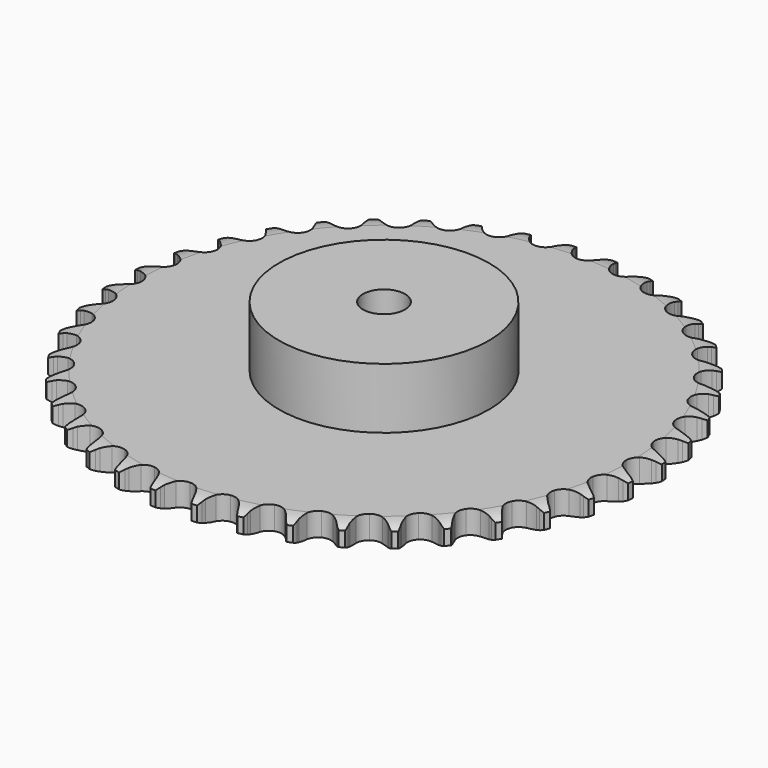
from build123d import *

# Parameters (mm, degrees)
PAD_DEPTH         = 11.1
SKETCH001_R       = 50
PAD001_DEPTH      = 40
SKETCH002_R       = 10
POCKET_DEPTH      = 0.001
POCKET_DEPTH_BACK = 40.001


with BuildPart() as part:
    # Sprocket → Pad (new body)
    with BuildSketch(Plane.XY):
        with BuildLine():
            ThreePointArc((-10.000443, 127.067676), (-8.616293, 125.369452), (-7.644652, 123.405845))
            Line((-7.644652, 123.405845), (-7.056217, 121.780312))
            ThreePointArc((-7.056217, 121.780312), (-6.126662, 119.69739), (-4.906159, 117.770471))
            ThreePointArc((-4.906159, 117.770471), (-2.747075, 115.950742), (0, 115.297563))
            ThreePointArc((0, 115.297563), (2.747075, 115.950742), (4.906159, 117.770471))
            ThreePointArc((4.906159, 117.770471), (6.126662, 119.69739), (7.056217, 121.780312))
            Line((7.056217, 121.780312), (7.644652, 123.405845))
            ThreePointArc((7.644652, 123.405845), (8.616293, 125.369452), (10.000443, 127.067676))
            ThreePointArc((10.000443, 127.067676), (11.101891, 125.173831), (11.754394, 123.082401))
            Line((11.754394, 123.082401), (12.081294, 121.38483))
            ThreePointArc((12.081294, 121.38483), (12.673565, 119.182137), (13.577604, 117.088014))
            ThreePointArc((13.577604, 117.088014), (15.425439, 114.952933), (18.036513, 113.878059))
            ThreePointArc((18.036513, 113.878059), (20.851946, 114.093459), (23.269117, 115.553029))
            Line((23.269117, 115.553029), (26.019982, 119.177159))
            ThreePointArc((26.019982, 119.177159), (26.416953, 119.945358), (26.855461, 120.690627))
            ThreePointArc((26.855461, 120.690627), (28.122315, 122.478061), (29.755085, 123.938849))
            ThreePointArc((29.755085, 123.938849), (30.54671, 121.896015), (30.864007, 119.728261))
            Line((30.864007, 119.728261), (30.921325, 118.000451))
            ThreePointArc((30.921325, 118.000451), (31.161726, 115.732225), (31.727042, 113.522461))
            ThreePointArc((31.727042, 113.522461), (33.218127, 111.124602), (35.628906, 109.654499))
            ThreePointArc((35.628906, 109.654499), (38.443373, 109.426816), (41.059112, 110.490288))
            Line((41.059112, 110.490288), (44.343048, 113.639468))
            ThreePointArc((44.343048, 113.639468), (44.855304, 114.33611), (45.404999, 115.003606))
            ThreePointArc((45.404999, 115.003606), (46.935873, 116.570853), (48.777058, 117.758235))
            ThreePointArc((48.777058, 117.758235), (49.239367, 115.616715), (49.213646, 113.426013))
            Line((49.213646, 113.426013), (48.999969, 111.710508))
            ThreePointArc((48.999969, 111.710508), (48.882582, 109.432601), (49.095255, 107.161608))
            ThreePointArc((49.095255, 107.161608), (50.192874, 104.560014), (52.343998, 102.730881))
            ThreePointArc((52.343998, 102.730881), (55.088197, 102.065722), (57.838095, 102.706909))
            Line((57.838095, 102.706909), (61.574241, 105.303597))
            ThreePointArc((61.574241, 105.303597), (62.189169, 105.911527), (62.836516, 106.484814))
            ThreePointArc((62.836516, 106.484814), (64.593713, 107.793285), (66.597978, 108.678023))
            ThreePointArc((66.597978, 108.678023), (66.719588, 106.490547), (66.351482, 104.33084))
            Line((66.351482, 104.33084), (65.872072, 102.669883))
            ThreePointArc((65.872072, 102.669883), (65.399787, 100.438384), (65.25458, 98.162081))
            ThreePointArc((65.25458, 98.162081), (65.931706, 95.420811), (67.770207, 93.277688))
            ThreePointArc((67.770207, 93.277688), (70.376566, 92.191431), (73.192913, 92.394545))
            Line((73.192913, 92.394545), (77.289271, 94.374802))
            ThreePointArc((77.289271, 94.374802), (77.99173, 94.879051), (78.720789, 95.344012))
            ThreePointArc((78.720789, 95.344012), (80.661042, 96.361487), (82.779035, 96.921797))
            ThreePointArc((82.779035, 96.921797), (82.556951, 94.742229), (81.855525, 92.666695))
            Line((81.855525, 92.666695), (81.122186, 91.101184))
            ThreePointArc((81.122186, 91.101184), (80.306632, 88.97104), (79.80712, 86.745478))
            ThreePointArc((79.80712, 86.745478), (80.047081, 83.932031), (81.527689, 81.527689))
            ThreePointArc((81.527689, 81.527689), (83.932031, 80.047081), (86.745478, 79.80712))
            Line((86.745478, 79.80712), (91.101184, 81.122186))
            ThreePointArc((91.101184, 81.122186), (91.873876, 81.510338), (92.666695, 81.855525))
            ThreePointArc((92.666695, 81.855525), (94.742229, 82.556951), (96.921797, 82.779035))
            ThreePointArc((96.921797, 82.779035), (96.361487, 80.661042), (95.344012, 78.720789))
            Line((95.344012, 78.720789), (94.374802, 77.289271))
            ThreePointArc((94.374802, 77.289271), (93.236061, 75.312934), (92.394545, 73.192913))
            ThreePointArc((92.394545, 73.192913), (92.191431, 70.376566), (93.277688, 67.770207))
            ThreePointArc((93.277688, 67.770207), (95.420811, 65.931706), (98.162081, 65.25458))
            Line((98.162081, 65.25458), (102.669883, 65.872072))
            ThreePointArc((102.669883, 65.872072), (103.493782, 66.13457), (104.33084, 66.351482))
            ThreePointArc((104.33084, 66.351482), (106.490547, 66.719588), (108.678023, 66.597978))
            ThreePointArc((108.678023, 66.597978), (107.793285, 64.593713), (106.484814, 62.836516))
            Line((106.484814, 62.836516), (105.303597, 61.574241))
            ThreePointArc((105.303597, 61.574241), (103.869709, 59.800373), (102.706909, 57.838095))
            ThreePointArc((102.706909, 57.838095), (102.065722, 55.088197), (102.730881, 52.343998))
            ThreePointArc((102.730881, 52.343998), (104.560014, 50.192874), (107.161608, 49.095255))
            Line((107.161608, 49.095255), (111.710508, 48.999969))
            ThreePointArc((111.710508, 48.999969), (112.565328, 49.130349), (113.426013, 49.213646))
            ThreePointArc((113.426013, 49.213646), (115.616715, 49.239367), (117.758235, 48.777058))
            ThreePointArc((117.758235, 48.777058), (116.570853, 46.935873), (115.003606, 45.404999))
            Line((115.003606, 45.404999), (113.639468, 44.343048))
            ThreePointArc((113.639468, 44.343048), (111.94574, 42.815329), (110.490288, 41.059112))
            ThreePointArc((110.490288, 41.059112), (109.426816, 38.443373), (109.654499, 35.628906))
            ThreePointArc((109.654499, 35.628906), (111.124602, 33.218127), (113.522461, 31.727042))
            Line((113.522461, 31.727042), (118.000451, 30.921325))
            ThreePointArc((118.000451, 30.921325), (118.865142, 30.916376), (119.728261, 30.864007))
            ThreePointArc((119.728261, 30.864007), (121.896015, 30.54671), (123.938849, 29.755085))
            ThreePointArc((123.938849, 29.755085), (122.478061, 28.122315), (120.690627, 26.855461))
            Line((120.690627, 26.855461), (119.177159, 26.019982))
            ThreePointArc((119.177159, 26.019982), (117.265295, 24.776029), (115.553029, 23.269117))
            ThreePointArc((115.553029, 23.269117), (114.093459, 20.851946), (113.878059, 18.036513))
            ThreePointArc((113.878059, 18.036513), (114.952933, 15.425439), (117.088014, 13.577604))
            Line((117.088014, 13.577604), (121.38483, 12.081294))
            ThreePointArc((121.38483, 12.081294), (122.238102, 11.941139), (123.082401, 11.754394))
            ThreePointArc((123.082401, 11.754394), (125.173831, 11.101891), (127.067676, 10.000443))
            ThreePointArc((127.067676, 10.000443), (125.369452, 8.616293), (123.405845, 7.644652))
            Line((123.405845, 7.644652), (121.780312, 7.056217))
            ThreePointArc((121.780312, 7.056217), (119.69739, 6.126662), (117.770471, 4.906159))
            ThreePointArc((117.770471, 4.906159), (115.950742, 2.747075), (115.297563, 0))
            ThreePointArc((115.297563, 0), (115.950742, -2.747075), (117.770471, -4.906159))
            Line((117.770471, -4.906159), (121.780312, -7.056217))
            ThreePointArc((121.780312, -7.056217), (122.601154, -7.328128), (123.405845, -7.644652))
            ThreePointArc((123.405845, -7.644652), (125.369452, -8.616293), (127.067676, -10.000443))
            ThreePointArc((127.067676, -10.000443), (125.173831, -11.101891), (123.082401, -11.754394))
            Line((123.082401, -11.754394), (121.38483, -12.081294))
            ThreePointArc((121.38483, -12.081294), (119.182137, -12.673565), (117.088014, -13.577604))
            ThreePointArc((117.088014, -13.577604), (114.952933, -15.425439), (113.878059, -18.036513))
            ThreePointArc((113.878059, -18.036513), (114.093459, -20.851946), (115.553029, -23.269117))
            Line((115.553029, -23.269117), (119.177159, -26.019982))
            ThreePointArc((119.177159, -26.019982), (119.945358, -26.416953), (120.690627, -26.855461))
            ThreePointArc((120.690627, -26.855461), (122.478061, -28.122315), (123.938849, -29.755085))
            ThreePointArc((123.938849, -29.755085), (121.896015, -30.54671), (119.728261, -30.864007))
            Line((119.728261, -30.864007), (118.000451, -30.921325))
            ThreePointArc((118.000451, -30.921325), (115.732225, -31.161726), (113.522461, -31.727042))
            ThreePointArc((113.522461, -31.727042), (111.124602, -33.218127), (109.654499, -35.628906))
            ThreePointArc((109.654499, -35.628906), (109.426816, -38.443373), (110.490288, -41.059112))
            Line((110.490288, -41.059112), (113.639468, -44.343048))
            ThreePointArc((113.639468, -44.343048), (114.33611, -44.855304), (115.003606, -45.404999))
            ThreePointArc((115.003606, -45.404999), (116.570853, -46.935873), (117.758235, -48.777058))
            ThreePointArc((117.758235, -48.777058), (115.616715, -49.239367), (113.426013, -49.213646))
            Line((113.426013, -49.213646), (111.710508, -48.999969))
            ThreePointArc((111.710508, -48.999969), (109.432601, -48.882582), (107.161608, -49.095255))
            ThreePointArc((107.161608, -49.095255), (104.560014, -50.192874), (102.730881, -52.343998))
            ThreePointArc((102.730881, -52.343998), (102.065722, -55.088197), (102.706909, -57.838095))
            Line((102.706909, -57.838095), (105.303597, -61.574241))
            ThreePointArc((105.303597, -61.574241), (105.911527, -62.189169), (106.484814, -62.836516))
            ThreePointArc((106.484814, -62.836516), (107.793285, -64.593713), (108.678023, -66.597978))
            ThreePointArc((108.678023, -66.597978), (106.490547, -66.719588), (104.33084, -66.351482))
            Line((104.33084, -66.351482), (102.669883, -65.872072))
            ThreePointArc((102.669883, -65.872072), (100.438384, -65.399787), (98.162081, -65.25458))
            ThreePointArc((98.162081, -65.25458), (95.420811, -65.931706), (93.277688, -67.770207))
            ThreePointArc((93.277688, -67.770207), (92.191431, -70.376566), (92.394545, -73.192913))
            Line((92.394545, -73.192913), (94.374802, -77.289271))
            ThreePointArc((94.374802, -77.289271), (94.879051, -77.99173), (95.344012, -78.720789))
            ThreePointArc((95.344012, -78.720789), (96.361487, -80.661042), (96.921797, -82.779035))
            ThreePointArc((96.921797, -82.779035), (94.742229, -82.556951), (92.666695, -81.855525))
            Line((92.666695, -81.855525), (91.101184, -81.122186))
            ThreePointArc((91.101184, -81.122186), (88.97104, -80.306632), (86.745478, -79.80712))
            ThreePointArc((86.745478, -79.80712), (83.932031, -80.047081), (81.527689, -81.527689))
            ThreePointArc((81.527689, -81.527689), (80.047081, -83.932031), (79.80712, -86.745478))
            Line((79.80712, -86.745478), (81.122186, -91.101184))
            ThreePointArc((81.122186, -91.101184), (81.510338, -91.873876), (81.855525, -92.666695))
            ThreePointArc((81.855525, -92.666695), (82.556951, -94.742229), (82.779035, -96.921797))
            ThreePointArc((82.779035, -96.921797), (80.661042, -96.361487), (78.720789, -95.344012))
            Line((78.720789, -95.344012), (77.289271, -94.374802))
            ThreePointArc((77.289271, -94.374802), (75.312934, -93.236061), (73.192913, -92.394545))
            ThreePointArc((73.192913, -92.394545), (70.376566, -92.191431), (67.770207, -93.277688))
            ThreePointArc((67.770207, -93.277688), (65.931706, -95.420811), (65.25458, -98.162081))
            Line((65.25458, -98.162081), (65.872072, -102.669883))
            ThreePointArc((65.872072, -102.669883), (66.13457, -103.493782), (66.351482, -104.33084))
            ThreePointArc((66.351482, -104.33084), (66.719588, -106.490547), (66.597978, -108.678023))
            ThreePointArc((66.597978, -108.678023), (64.593713, -107.793285), (62.836516, -106.484814))
            Line((62.836516, -106.484814), (61.574241, -105.303597))
            ThreePointArc((61.574241, -105.303597), (59.800373, -103.869709), (57.838095, -102.706909))
            ThreePointArc((57.838095, -102.706909), (55.088197, -102.065722), (52.343998, -102.730881))
            ThreePointArc((52.343998, -102.730881), (50.192874, -104.560014), (49.095255, -107.161608))
            Line((49.095255, -107.161608), (48.999969, -111.710508))
            ThreePointArc((48.999969, -111.710508), (49.130349, -112.565328), (49.213646, -113.426013))
            ThreePointArc((49.213646, -113.426013), (49.239367, -115.616715), (48.777058, -117.758235))
            ThreePointArc((48.777058, -117.758235), (46.935873, -116.570853), (45.404999, -115.003606))
            Line((45.404999, -115.003606), (44.343048, -113.639468))
            ThreePointArc((44.343048, -113.639468), (42.815329, -111.94574), (41.059112, -110.490288))
            ThreePointArc((41.059112, -110.490288), (38.443373, -109.426816), (35.628906, -109.654499))
            ThreePointArc((35.628906, -109.654499), (33.218127, -111.124602), (31.727042, -113.522461))
            Line((31.727042, -113.522461), (30.921325, -118.000451))
            ThreePointArc((30.921325, -118.000451), (30.916376, -118.865142), (30.864007, -119.728261))
            ThreePointArc((30.864007, -119.728261), (30.54671, -121.896015), (29.755085, -123.938849))
            ThreePointArc((29.755085, -123.938849), (28.122315, -122.478061), (26.855461, -120.690627))
            Line((26.855461, -120.690627), (26.019982, -119.177159))
            ThreePointArc((26.019982, -119.177159), (24.776029, -117.265295), (23.269117, -115.553029))
            ThreePointArc((23.269117, -115.553029), (20.851946, -114.093459), (18.036513, -113.878059))
            ThreePointArc((18.036513, -113.878059), (15.425439, -114.952933), (13.577604, -117.088014))
            Line((13.577604, -117.088014), (12.081294, -121.38483))
            ThreePointArc((12.081294, -121.38483), (11.941139, -122.238102), (11.754394, -123.082401))
            ThreePointArc((11.754394, -123.082401), (11.101891, -125.173831), (10.000443, -127.067676))
            ThreePointArc((10.000443, -127.067676), (8.616293, -125.369452), (7.644652, -123.405845))
            Line((7.644652, -123.405845), (7.056217, -121.780312))
            ThreePointArc((7.056217, -121.780312), (6.126662, -119.69739), (4.906159, -117.770471))
            ThreePointArc((4.906159, -117.770471), (2.747075, -115.950742), (0, -115.297563))
            ThreePointArc((0, -115.297563), (-2.747075, -115.950742), (-4.906159, -117.770471))
            Line((-4.906159, -117.770471), (-7.056217, -121.780312))
            ThreePointArc((-7.056217, -121.780312), (-7.328128, -122.601154), (-7.644652, -123.405845))
            ThreePointArc((-7.644652, -123.405845), (-8.616293, -125.369452), (-10.000443, -127.067676))
            ThreePointArc((-10.000443, -127.067676), (-11.101891, -125.173831), (-11.754394, -123.082401))
            Line((-11.754394, -123.082401), (-12.081294, -121.38483))
            ThreePointArc((-12.081294, -121.38483), (-12.673565, -119.182137), (-13.577604, -117.088014))
            ThreePointArc((-13.577604, -117.088014), (-15.425439, -114.952933), (-18.036513, -113.878059))
            ThreePointArc((-18.036513, -113.878059), (-20.851946, -114.093459), (-23.269117, -115.553029))
            Line((-23.269117, -115.553029), (-26.019982, -119.177159))
            ThreePointArc((-26.019982, -119.177159), (-26.416953, -119.945358), (-26.855461, -120.690627))
            ThreePointArc((-26.855461, -120.690627), (-28.122315, -122.478061), (-29.755085, -123.938849))
            ThreePointArc((-29.755085, -123.938849), (-30.54671, -121.896015), (-30.864007, -119.728261))
            Line((-30.864007, -119.728261), (-30.921325, -118.000451))
            ThreePointArc((-30.921325, -118.000451), (-31.161726, -115.732225), (-31.727042, -113.522461))
            ThreePointArc((-31.727042, -113.522461), (-33.218127, -111.124602), (-35.628906, -109.654499))
            ThreePointArc((-35.628906, -109.654499), (-38.443373, -109.426816), (-41.059112, -110.490288))
            Line((-41.059112, -110.490288), (-44.343048, -113.639468))
            ThreePointArc((-44.343048, -113.639468), (-44.855304, -114.33611), (-45.404999, -115.003606))
            ThreePointArc((-45.404999, -115.003606), (-46.935873, -116.570853), (-48.777058, -117.758235))
            ThreePointArc((-48.777058, -117.758235), (-49.239367, -115.616715), (-49.213646, -113.426013))
            Line((-49.213646, -113.426013), (-48.999969, -111.710508))
            ThreePointArc((-48.999969, -111.710508), (-48.882582, -109.432601), (-49.095255, -107.161608))
            ThreePointArc((-49.095255, -107.161608), (-50.192874, -104.560014), (-52.343998, -102.730881))
            ThreePointArc((-52.343998, -102.730881), (-55.088197, -102.065722), (-57.838095, -102.706909))
            Line((-57.838095, -102.706909), (-61.574241, -105.303597))
            ThreePointArc((-61.574241, -105.303597), (-62.189169, -105.911527), (-62.836516, -106.484814))
            ThreePointArc((-62.836516, -106.484814), (-64.593713, -107.793285), (-66.597978, -108.678023))
            ThreePointArc((-66.597978, -108.678023), (-66.719588, -106.490547), (-66.351482, -104.33084))
            Line((-66.351482, -104.33084), (-65.872072, -102.669883))
            ThreePointArc((-65.872072, -102.669883), (-65.399787, -100.438384), (-65.25458, -98.162081))
            ThreePointArc((-65.25458, -98.162081), (-65.931706, -95.420811), (-67.770207, -93.277688))
            ThreePointArc((-67.770207, -93.277688), (-70.376566, -92.191431), (-73.192913, -92.394545))
            Line((-73.192913, -92.394545), (-77.289271, -94.374802))
            ThreePointArc((-77.289271, -94.374802), (-77.99173, -94.879051), (-78.720789, -95.344012))
            ThreePointArc((-78.720789, -95.344012), (-80.661042, -96.361487), (-82.779035, -96.921797))
            ThreePointArc((-82.779035, -96.921797), (-82.556951, -94.742229), (-81.855525, -92.666695))
            Line((-81.855525, -92.666695), (-81.122186, -91.101184))
            ThreePointArc((-81.122186, -91.101184), (-80.306632, -88.97104), (-79.80712, -86.745478))
            ThreePointArc((-79.80712, -86.745478), (-80.047081, -83.932031), (-81.527689, -81.527689))
            ThreePointArc((-81.527689, -81.527689), (-83.932031, -80.047081), (-86.745478, -79.80712))
            Line((-86.745478, -79.80712), (-91.101184, -81.122186))
            ThreePointArc((-91.101184, -81.122186), (-91.873876, -81.510338), (-92.666695, -81.855525))
            ThreePointArc((-92.666695, -81.855525), (-94.742229, -82.556951), (-96.921797, -82.779035))
            ThreePointArc((-96.921797, -82.779035), (-96.361487, -80.661042), (-95.344012, -78.720789))
            Line((-95.344012, -78.720789), (-94.374802, -77.289271))
            ThreePointArc((-94.374802, -77.289271), (-93.236061, -75.312934), (-92.394545, -73.192913))
            ThreePointArc((-92.394545, -73.192913), (-92.191431, -70.376566), (-93.277688, -67.770207))
            ThreePointArc((-93.277688, -67.770207), (-95.420811, -65.931706), (-98.162081, -65.25458))
            Line((-98.162081, -65.25458), (-102.669883, -65.872072))
            ThreePointArc((-102.669883, -65.872072), (-103.493782, -66.13457), (-104.33084, -66.351482))
            ThreePointArc((-104.33084, -66.351482), (-106.490547, -66.719588), (-108.678023, -66.597978))
            ThreePointArc((-108.678023, -66.597978), (-107.793285, -64.593713), (-106.484814, -62.836516))
            Line((-106.484814, -62.836516), (-105.303597, -61.574241))
            ThreePointArc((-105.303597, -61.574241), (-103.869709, -59.800373), (-102.706909, -57.838095))
            ThreePointArc((-102.706909, -57.838095), (-102.065722, -55.088197), (-102.730881, -52.343998))
            ThreePointArc((-102.730881, -52.343998), (-104.560014, -50.192874), (-107.161608, -49.095255))
            Line((-107.161608, -49.095255), (-111.710508, -48.999969))
            ThreePointArc((-111.710508, -48.999969), (-112.565328, -49.130349), (-113.426013, -49.213646))
            ThreePointArc((-113.426013, -49.213646), (-115.616715, -49.239367), (-117.758235, -48.777058))
            ThreePointArc((-117.758235, -48.777058), (-116.570853, -46.935873), (-115.003606, -45.404999))
            Line((-115.003606, -45.404999), (-113.639468, -44.343048))
            ThreePointArc((-113.639468, -44.343048), (-111.94574, -42.815329), (-110.490288, -41.059112))
            ThreePointArc((-110.490288, -41.059112), (-109.426816, -38.443373), (-109.654499, -35.628906))
            ThreePointArc((-109.654499, -35.628906), (-111.124602, -33.218127), (-113.522461, -31.727042))
            Line((-113.522461, -31.727042), (-118.000451, -30.921325))
            ThreePointArc((-118.000451, -30.921325), (-118.865142, -30.916376), (-119.728261, -30.864007))
            ThreePointArc((-119.728261, -30.864007), (-121.896015, -30.54671), (-123.938849, -29.755085))
            ThreePointArc((-123.938849, -29.755085), (-122.478061, -28.122315), (-120.690627, -26.855461))
            Line((-120.690627, -26.855461), (-119.177159, -26.019982))
            ThreePointArc((-119.177159, -26.019982), (-117.265295, -24.776029), (-115.553029, -23.269117))
            ThreePointArc((-115.553029, -23.269117), (-114.093459, -20.851946), (-113.878059, -18.036513))
            ThreePointArc((-113.878059, -18.036513), (-114.952933, -15.425439), (-117.088014, -13.577604))
            Line((-117.088014, -13.577604), (-121.38483, -12.081294))
            ThreePointArc((-121.38483, -12.081294), (-122.238102, -11.941139), (-123.082401, -11.754394))
            ThreePointArc((-123.082401, -11.754394), (-125.173831, -11.101891), (-127.067676, -10.000443))
            ThreePointArc((-127.067676, -10.000443), (-125.369452, -8.616293), (-123.405845, -7.644652))
            Line((-123.405845, -7.644652), (-121.780312, -7.056217))
            ThreePointArc((-121.780312, -7.056217), (-119.69739, -6.126662), (-117.770471, -4.906159))
            ThreePointArc((-117.770471, -4.906159), (-115.950742, -2.747075), (-115.297563, 0))
            ThreePointArc((-115.297563, 0), (-115.950742, 2.747075), (-117.770471, 4.906159))
            Line((-117.770471, 4.906159), (-121.780312, 7.056217))
            ThreePointArc((-121.780312, 7.056217), (-122.601154, 7.328128), (-123.405845, 7.644652))
            ThreePointArc((-123.405845, 7.644652), (-125.369452, 8.616293), (-127.067676, 10.000443))
            ThreePointArc((-127.067676, 10.000443), (-125.173831, 11.101891), (-123.082401, 11.754394))
            Line((-123.082401, 11.754394), (-121.38483, 12.081294))
            ThreePointArc((-121.38483, 12.081294), (-119.182137, 12.673565), (-117.088014, 13.577604))
            ThreePointArc((-117.088014, 13.577604), (-114.952933, 15.425439), (-113.878059, 18.036513))
            ThreePointArc((-113.878059, 18.036513), (-114.093459, 20.851946), (-115.553029, 23.269117))
            Line((-115.553029, 23.269117), (-119.177159, 26.019982))
            ThreePointArc((-119.177159, 26.019982), (-119.945358, 26.416953), (-120.690627, 26.855461))
            ThreePointArc((-120.690627, 26.855461), (-122.478061, 28.122315), (-123.938849, 29.755085))
            ThreePointArc((-123.938849, 29.755085), (-121.896015, 30.54671), (-119.728261, 30.864007))
            Line((-119.728261, 30.864007), (-118.000451, 30.921325))
            ThreePointArc((-118.000451, 30.921325), (-115.732225, 31.161726), (-113.522461, 31.727042))
            ThreePointArc((-113.522461, 31.727042), (-111.124602, 33.218127), (-109.654499, 35.628906))
            ThreePointArc((-109.654499, 35.628906), (-109.426816, 38.443373), (-110.490288, 41.059112))
            Line((-110.490288, 41.059112), (-113.639468, 44.343048))
            ThreePointArc((-113.639468, 44.343048), (-114.33611, 44.855304), (-115.003606, 45.404999))
            ThreePointArc((-115.003606, 45.404999), (-116.570853, 46.935873), (-117.758235, 48.777058))
            ThreePointArc((-117.758235, 48.777058), (-115.616715, 49.239367), (-113.426013, 49.213646))
            Line((-113.426013, 49.213646), (-111.710508, 48.999969))
            ThreePointArc((-111.710508, 48.999969), (-109.432601, 48.882582), (-107.161608, 49.095255))
            ThreePointArc((-107.161608, 49.095255), (-104.560014, 50.192874), (-102.730881, 52.343998))
            ThreePointArc((-102.730881, 52.343998), (-102.065722, 55.088197), (-102.706909, 57.838095))
            Line((-102.706909, 57.838095), (-105.303597, 61.574241))
            ThreePointArc((-105.303597, 61.574241), (-105.911527, 62.189169), (-106.484814, 62.836516))
            ThreePointArc((-106.484814, 62.836516), (-107.793285, 64.593713), (-108.678023, 66.597978))
            ThreePointArc((-108.678023, 66.597978), (-106.490547, 66.719588), (-104.33084, 66.351482))
            Line((-104.33084, 66.351482), (-102.669883, 65.872072))
            ThreePointArc((-102.669883, 65.872072), (-100.438384, 65.399787), (-98.162081, 65.25458))
            ThreePointArc((-98.162081, 65.25458), (-95.420811, 65.931706), (-93.277688, 67.770207))
            ThreePointArc((-93.277688, 67.770207), (-92.191431, 70.376566), (-92.394545, 73.192913))
            Line((-92.394545, 73.192913), (-94.374802, 77.289271))
            ThreePointArc((-94.374802, 77.289271), (-94.879051, 77.99173), (-95.344012, 78.720789))
            ThreePointArc((-95.344012, 78.720789), (-96.361487, 80.661042), (-96.921797, 82.779035))
            ThreePointArc((-96.921797, 82.779035), (-94.742229, 82.556951), (-92.666695, 81.855525))
            Line((-92.666695, 81.855525), (-91.101184, 81.122186))
            ThreePointArc((-91.101184, 81.122186), (-88.97104, 80.306632), (-86.745478, 79.80712))
            ThreePointArc((-86.745478, 79.80712), (-83.932031, 80.047081), (-81.527689, 81.527689))
            ThreePointArc((-81.527689, 81.527689), (-80.047081, 83.932031), (-79.80712, 86.745478))
            Line((-79.80712, 86.745478), (-81.122186, 91.101184))
            ThreePointArc((-81.122186, 91.101184), (-81.510338, 91.873876), (-81.855525, 92.666695))
            ThreePointArc((-81.855525, 92.666695), (-82.556951, 94.742229), (-82.779035, 96.921797))
            ThreePointArc((-82.779035, 96.921797), (-80.661042, 96.361487), (-78.720789, 95.344012))
            Line((-78.720789, 95.344012), (-77.289271, 94.374802))
            ThreePointArc((-77.289271, 94.374802), (-75.312934, 93.236061), (-73.192913, 92.394545))
            ThreePointArc((-73.192913, 92.394545), (-70.376566, 92.191431), (-67.770207, 93.277688))
            ThreePointArc((-67.770207, 93.277688), (-65.931706, 95.420811), (-65.25458, 98.162081))
            Line((-65.25458, 98.162081), (-65.872072, 102.669883))
            ThreePointArc((-65.872072, 102.669883), (-66.13457, 103.493782), (-66.351482, 104.33084))
            ThreePointArc((-66.351482, 104.33084), (-66.719588, 106.490547), (-66.597978, 108.678023))
            ThreePointArc((-66.597978, 108.678023), (-64.593713, 107.793285), (-62.836516, 106.484814))
            Line((-62.836516, 106.484814), (-61.574241, 105.303597))
            ThreePointArc((-61.574241, 105.303597), (-59.800373, 103.869709), (-57.838095, 102.706909))
            ThreePointArc((-57.838095, 102.706909), (-55.088197, 102.065722), (-52.343998, 102.730881))
            ThreePointArc((-52.343998, 102.730881), (-50.192874, 104.560014), (-49.095255, 107.161608))
            Line((-49.095255, 107.161608), (-48.999969, 111.710508))
            ThreePointArc((-48.999969, 111.710508), (-49.130349, 112.565328), (-49.213646, 113.426013))
            ThreePointArc((-49.213646, 113.426013), (-49.239367, 115.616715), (-48.777058, 117.758235))
            ThreePointArc((-48.777058, 117.758235), (-46.935873, 116.570853), (-45.404999, 115.003606))
            Line((-45.404999, 115.003606), (-44.343048, 113.639468))
            ThreePointArc((-44.343048, 113.639468), (-42.815329, 111.94574), (-41.059112, 110.490288))
            ThreePointArc((-41.059112, 110.490288), (-38.443373, 109.426816), (-35.628906, 109.654499))
            ThreePointArc((-35.628906, 109.654499), (-33.218127, 111.124602), (-31.727042, 113.522461))
            Line((-31.727042, 113.522461), (-30.921325, 118.000451))
            ThreePointArc((-30.921325, 118.000451), (-30.916376, 118.865142), (-30.864007, 119.728261))
            ThreePointArc((-30.864007, 119.728261), (-30.54671, 121.896015), (-29.755085, 123.938849))
            ThreePointArc((-29.755085, 123.938849), (-28.122315, 122.478061), (-26.855461, 120.690627))
            Line((-26.855461, 120.690627), (-26.019982, 119.177159))
            ThreePointArc((-26.019982, 119.177159), (-24.776029, 117.265295), (-23.269117, 115.553029))
            ThreePointArc((-23.269117, 115.553029), (-20.851946, 114.093459), (-18.036513, 113.878059))
            ThreePointArc((-18.036513, 113.878059), (-15.425439, 114.952933), (-13.577604, 117.088014))
            Line((-13.577604, 117.088014), (-12.081294, 121.38483))
            ThreePointArc((-12.081294, 121.38483), (-11.941139, 122.238102), (-11.754394, 123.082401))
            ThreePointArc((-11.754394, 123.082401), (-11.101891, 125.173831), (-10.000443, 127.067676))
        make_face()
    extrude(amount=PAD_DEPTH)

    # Sketch → Groove (revolve, cut)
    with BuildSketch(Plane.XZ):
        with BuildLine():
            Line((117.164719, 0), (125.65, 0))
            Line((134.135281, 0), (125.65, 0))
            Line((134.135281, 11.1), (134.135281, 0))
            Line((125.65, 11.1), (134.135281, 11.1))
            Line((117.164719, 11.1), (125.65, 11.1))
            ThreePointArc((125.65, 9.1), (121.523618, 10.593242), (117.164719, 11.1))
            Line((125.65, 2), (125.65, 9.1))
            ThreePointArc((117.164719, 0), (121.523618, 0.506758), (125.65, 2))
        make_face()
    revolve(axis=Axis((0, 0, 0), (0, 0, 1)), mode=Mode.SUBTRACT)

    # Sketch001 → Pad001 (join)
    with BuildSketch(Plane.XY):
        Circle(SKETCH001_R)
    extrude(amount=PAD001_DEPTH)

    # Sketch002 → Pocket (cut, two sides)
    with BuildSketch(Plane.XY) as pocket_sk:
        Circle(SKETCH002_R)
    extrude(amount=-POCKET_DEPTH, mode=Mode.SUBTRACT)
    extrude(pocket_sk.sketch, amount=POCKET_DEPTH_BACK, mode=Mode.SUBTRACT)


solid = part.part
